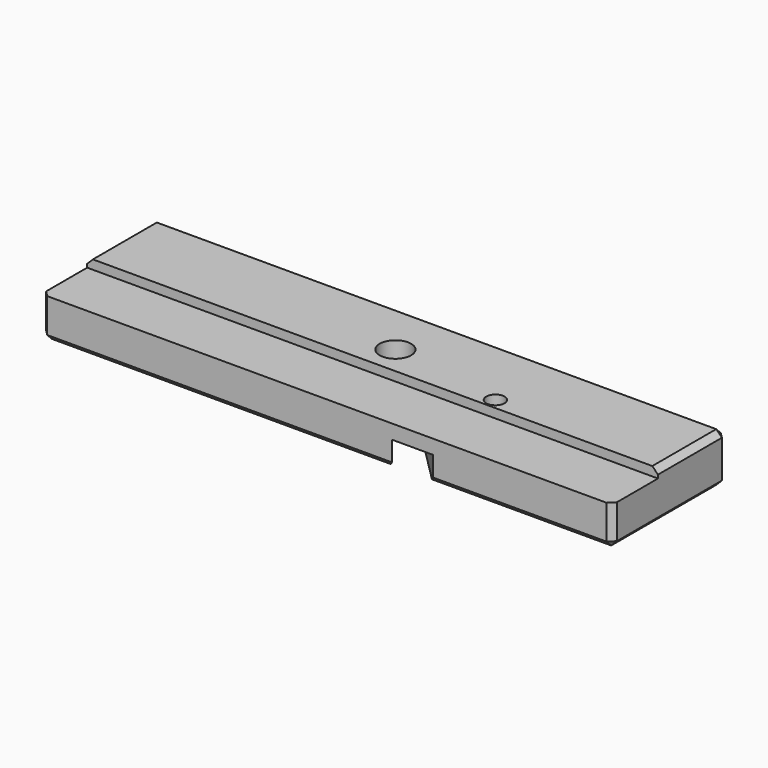
from build123d import *

# Parameters (mm, degrees)
SKETCH_W        = 100
SKETCH_H        = 25
PAD_DEPTH       = 8.6
SKETCH001_W     = 111.182612
SKETCH001_H     = 13.535424
POCKET_DEPTH    = 1.6
SKETCH002_R     = 2.75
POCKET001_DEPTH = 8.601
POCKET002_DEPTH = 4.5
SKETCH004_R     = 1.6
POCKET003_DEPTH = 8.601
POCKET004_DEPTH = 3.5
CHAMFER_SIZE    = 1


with BuildPart() as part:
    # Sketch → Pad (new body)
    with BuildSketch(Plane.XY):
        with Locations((50, 12.5)):
            Rectangle(SKETCH_W, SKETCH_H)
    extrude(amount=PAD_DEPTH)

    # Sketch001 → Pocket (cut)
    with BuildSketch(Plane.XY.offset(8.6)):
        with Locations((49.408694, 3.232288)):
            Rectangle(SKETCH001_W, SKETCH001_H)
    extrude(amount=-POCKET_DEPTH, mode=Mode.SUBTRACT)

    # Sketch002 → Pocket001 (cut, through all)
    with BuildSketch(Plane.XY.offset(8.6)):
        with Locations((50, 15)):
            Circle(SKETCH002_R)
    extrude(amount=-POCKET001_DEPTH, mode=Mode.SUBTRACT)

    # Sketch003 → Pocket002 (cut)
    with BuildSketch(Plane(origin=(0, 0, 0), x_dir=(1, 0, 0), z_dir=(0, 0, -1))):
        with BuildLine():
            ThreePointArc((33.459446, -27.93431), (33.459446, -31.540554), (37.06569, -31.540554))
            Line((37.06569, -31.540554), (71.803122, 3.196878))
            ThreePointArc((71.803122, 3.196878), (71.803122, 6.803122), (68.196878, 6.803122))
            Line((33.459446, -27.93431), (68.196878, 6.803122))
        make_face()
    extrude(amount=-POCKET002_DEPTH, mode=Mode.SUBTRACT)

    # Sketch004 → Pocket003 (cut, through all)
    with BuildSketch(Plane.XY.offset(8.6)):
        with Locations((70, 11.886219)):
            Circle(SKETCH004_R)
    extrude(amount=-POCKET003_DEPTH, mode=Mode.SUBTRACT)

    # Sketch005 → Pocket004 (cut)
    with BuildSketch(Plane(origin=(0, 0, 0), x_dir=(1, 0, 0), z_dir=(0, 0, -1))):
        Polygon((72.524127, -13.906643), (73.011802, -10.710473), (70.487675, -8.690048), (67.475873, -9.865795), (66.988198, -13.061965), (69.512325, -15.08239), align=None)
    extrude(amount=-POCKET004_DEPTH, mode=Mode.SUBTRACT)

    # Chamfer
    chamfer_edges = [part.edges().sort_by_distance(p)[0] for p in [
        (30.696878, 0, 0),
        (0, 0, 3.5),
        (0, 12.5, 0),
        (18.196878, 25, 0),
        (84.303122, 0, 0),
        (100, 12.5, 0),
        (100, 0, 3.5),
        (100, 25, 4.3),
        (71.803122, 25, 0),
        (100, 17.5, 8.6),
        (0, 25, 4.3),
        (0, 17.5, 8.6),
        (50, 25, 8.6),
    ]]
    chamfer(chamfer_edges, length=CHAMFER_SIZE)


solid = part.part
